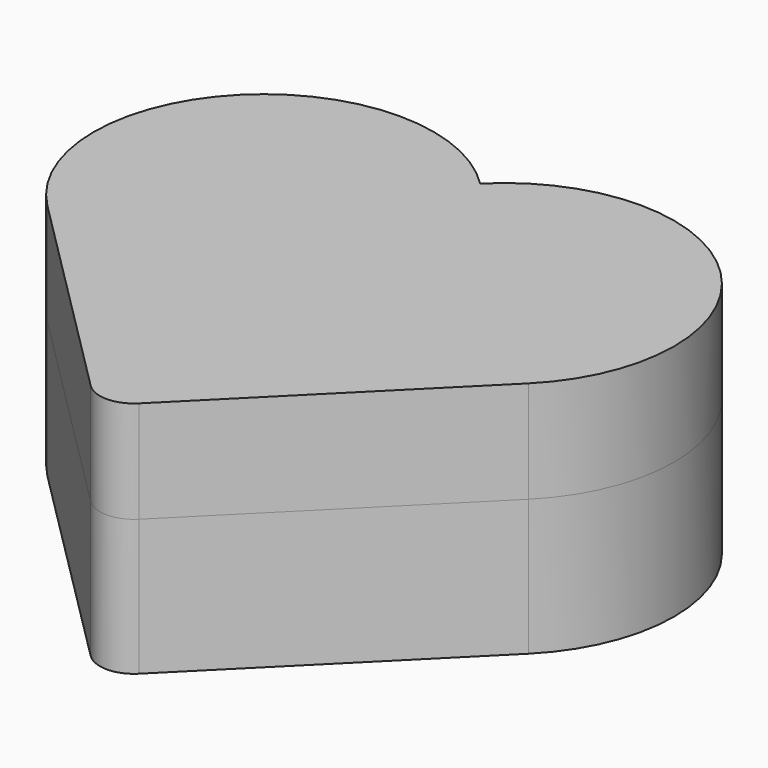
from build123d import *

# Parameters (mm, degrees)
PAD_DEPTH       = 20
POCKET_DEPTH    = 16
PAD002_DEPTH    = 10
POCKET002_DEPTH = 10
SKETCH006_W     = 10
SKETCH006_H     = 3
PAD003_DEPTH    = 10
CHAMFER_SIZE    = 1
PAD001_DEPTH    = 15
POCKET001_DEPTH = 11


with BuildPart() as box_bottom_body:
    # Sketch → Pad (new body)
    with BuildSketch(Plane.XY):
        with BuildLine():
            ThreePointArc((-3.535534, -67.175144), (0, -68.63961), (3.535534, -67.175144))
            Line((3.535534, -67.175144), (35.355339, -35.355339))
            ThreePointArc((35.355339, -35.355339), (35.355339, 0), (0, 0))
            ThreePointArc((0, 0), (-35.355339, 0), (-35.355339, -35.355339))
            Line((-3.535534, -67.175144), (-35.355339, -35.355339))
        make_face()
    extrude(amount=PAD_DEPTH)

    # Sketch001 (on DatumPlane) → Pocket (cut)
    with BuildSketch(Plane.XY.offset(4)):
        with BuildLine():
            ThreePointArc((-3.535534, -63.175144), (0, -64.63961), (3.535534, -63.175144))
            Line((3.535534, -63.175144), (31.355339, -35.355339))
            ThreePointArc((31.355339, -35.355339), (31.355339, -4), (0, -4))
            ThreePointArc((0, -4), (-31.355339, -4), (-31.355339, -35.355339))
            Line((-3.535534, -63.175144), (-31.355339, -35.355339))
        make_face()
    extrude(amount=POCKET_DEPTH, mode=Mode.SUBTRACT)

    # Sketch004 (on DatumPlane) → Pad002 (join)
    with BuildSketch(Plane.XY.offset(15)):
        with BuildLine():
            ThreePointArc((-3.535534, -63.175144), (0, -64.63961), (3.535534, -63.175144))
            Line((3.535534, -63.175144), (31.355339, -35.355339))
            ThreePointArc((31.355339, -35.355339), (31.355339, -4), (0, -4))
            ThreePointArc((0, -4), (-31.355339, -4), (-31.355339, -35.355339))
            Line((-3.535534, -63.175144), (-31.355339, -35.355339))
        make_face()
    extrude(amount=PAD002_DEPTH)

    # Sketch005 (on DatumPlane) → Pocket002 (cut)
    with BuildSketch(Plane.XY.offset(15)):
        with BuildLine():
            ThreePointArc((-3.535534, -61.175144), (0, -62.63961), (3.535534, -61.175144))
            Line((3.535534, -61.175144), (29.355339, -35.355339))
            ThreePointArc((29.355339, -35.355339), (29.355339, -6), (0, -6))
            ThreePointArc((0, -6), (-29.355339, -6), (-29.355339, -35.355339))
            Line((-3.535534, -61.175144), (-29.355339, -35.355339))
        make_face()
    extrude(amount=POCKET002_DEPTH, mode=Mode.SUBTRACT)

    # Sketch006 (on DatumPlane) → Pad003 (join)
    with BuildSketch(Plane.XY.offset(4)):
        with Locations((0, -26.5)):
            Rectangle(SKETCH006_W, SKETCH006_H)
        with Locations((0, -33.5)):
            Rectangle(SKETCH006_W, SKETCH006_H)
    extrude(amount=PAD003_DEPTH)

    # Chamfer
    chamfer_edges = [box_bottom_body.edges().sort_by_distance(p)[0] for p in [
        (-17.445436, -49.265242, 15),
        (0, -64.63961, 15),
        (17.445436, -49.265242, 15),
        (31.355339, -4, 15),
        (-31.355339, -4, 15),
    ]]
    chamfer(chamfer_edges, length=CHAMFER_SIZE)


with BuildPart() as box_top_body:
    # Sketch002 (on DatumPlane) → Pad001 (new body)
    with BuildSketch(Plane.XY.offset(20)):
        with BuildLine():
            ThreePointArc((-3.535534, -67.175144), (0, -68.63961), (3.535534, -67.175144))
            Line((3.535534, -67.175144), (35.355339, -35.355339))
            ThreePointArc((35.355339, -35.355339), (35.355339, 0), (0, 0))
            ThreePointArc((0, 0), (-35.355339, 0), (-35.355339, -35.355339))
            Line((-3.535534, -67.175144), (-35.355339, -35.355339))
        make_face()
    extrude(amount=PAD001_DEPTH)

    # Sketch003 (on DatumPlane) → Pocket001 (cut)
    with BuildSketch(Plane.XY.offset(20)):
        with BuildLine():
            ThreePointArc((-3.535534, -63.375144), (0, -64.83961), (3.535534, -63.375144))
            Line((3.535534, -63.375144), (31.555339, -35.355339))
            ThreePointArc((31.555339, -35.355339), (31.555339, -3.8), (0, -3.8))
            ThreePointArc((0, -3.8), (-31.555339, -3.8), (-31.555339, -35.355339))
            Line((-3.535534, -63.375144), (-31.555339, -35.355339))
        make_face()
    extrude(amount=POCKET001_DEPTH, mode=Mode.SUBTRACT)


solid = Compound([box_bottom_body.part, box_top_body.part])
